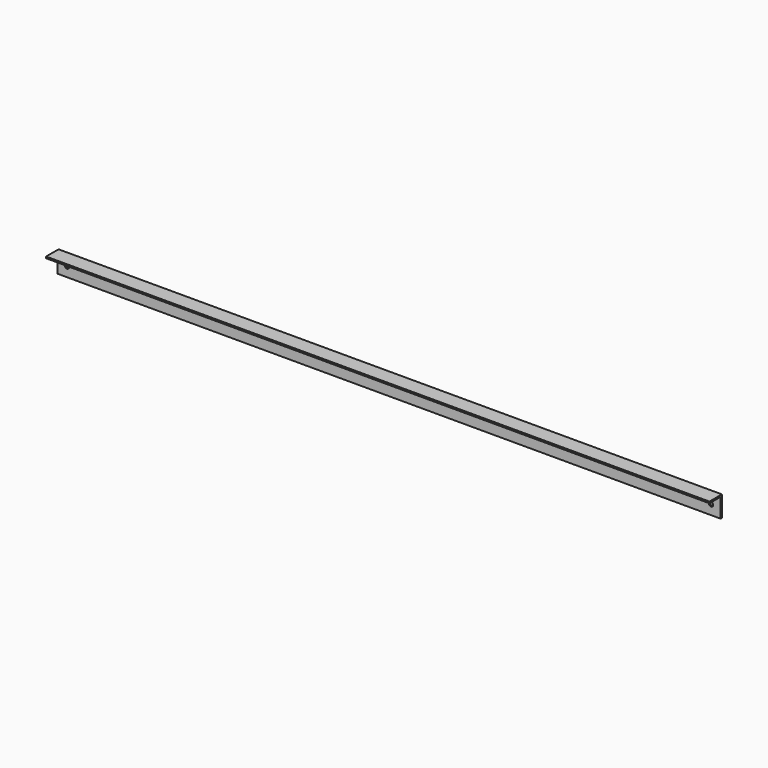
from build123d import *

# Parameters (mm, degrees)
EXTRUDE002_DEPTH = 637
SKETCH016_R      = 2.05
HOLE009_DEPTH    = 1276.481784


with BuildPart() as part:
    # Sketch015 → Extrude002 (new body)
    with BuildSketch(Plane(origin=(0, 0, 0), x_dir=(0, -1, 0), z_dir=(-1, 0, 0))):
        Polygon((-15, 0), (-15, 20), (0, 20), (0, 18.5), (-13.5, 18.5), (-13.5, 0), align=None)
    extrude(amount=-EXTRUDE002_DEPTH)

    # Sketch016 → Hole009 (cut, through all)
    with BuildSketch(Plane.XZ.offset(-13.5)):
        with Locations((9.25, 9.25)):
            Circle(SKETCH016_R)
    hole009 = extrude(amount=-HOLE009_DEPTH, mode=Mode.SUBTRACT)

    # Mirrored005: Hole009 across Sketch016 Axis0
    add(hole009.mirror(Plane(origin=(318.5, 13.5, 18.5), x_dir=(0, -1, 0), z_dir=(1, 0, 0))), mode=Mode.SUBTRACT)


with BuildPart() as part_1:
    # Body007 placement: moved
    add(part.part.moved(Location((1.5, 303.5, 280))))


solid = part_1.part
